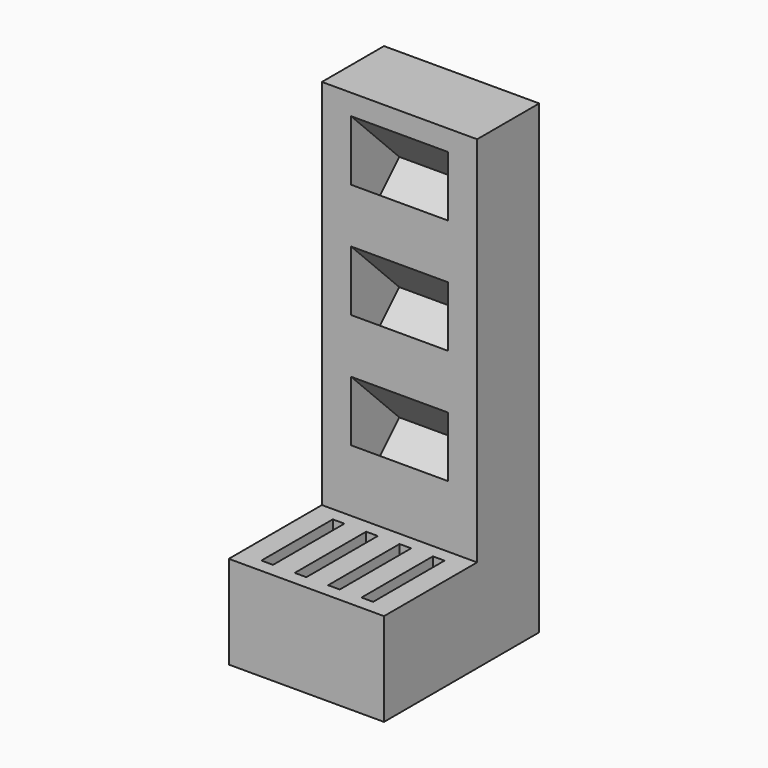
from build123d import *

# Parameters (mm, degrees)
F1_DEPTH = 10
F3_DEPTH = 6.25
F4_W     = 1.5
F4_H     = 11.5
F5_DEPTH = 10


with BuildPart() as f1:
    # F0 (on Right) → F1 (new body, symmetric)
    with BuildSketch(Plane.YZ):
        Polygon((-25, 0), (0, 0), (0, 60), (-10, 60), (-10, 12), (-25, 12), align=None)
    extrude(amount=F1_DEPTH, both=True)

    # F2 (on Right) → F3 (cut, symmetric)
    with BuildSketch(Plane.YZ):
        Polygon((-2.221825, 49.556349), (-10, 57.334524), (-10, 49.556349), (-6.110913, 45.667262), align=None)
        Polygon((-2.221825, 34.778175), (-10, 42.556349), (-10, 34.778175), (-6.110913, 30.889087), align=None)
        Polygon((-2.221825, 20), (-10, 27.778175), (-10, 20), (-6.110913, 16.110913), align=None)
    extrude(amount=F3_DEPTH, both=True, mode=Mode.SUBTRACT)

    # F4 (on face) → F5 (cut)
    with BuildSketch(Plane.XY.offset(12)):
        with Locations((-6.45, -17.5)):
            Rectangle(F4_W, F4_H)
        with Locations((-2.15, -17.5)):
            Rectangle(F4_W, F4_H)
        with Locations((2.15, -17.5)):
            Rectangle(F4_W, F4_H)
        with Locations((6.45, -17.5)):
            Rectangle(F4_W, F4_H)
    extrude(amount=-F5_DEPTH, mode=Mode.SUBTRACT)


solid = f1.part
